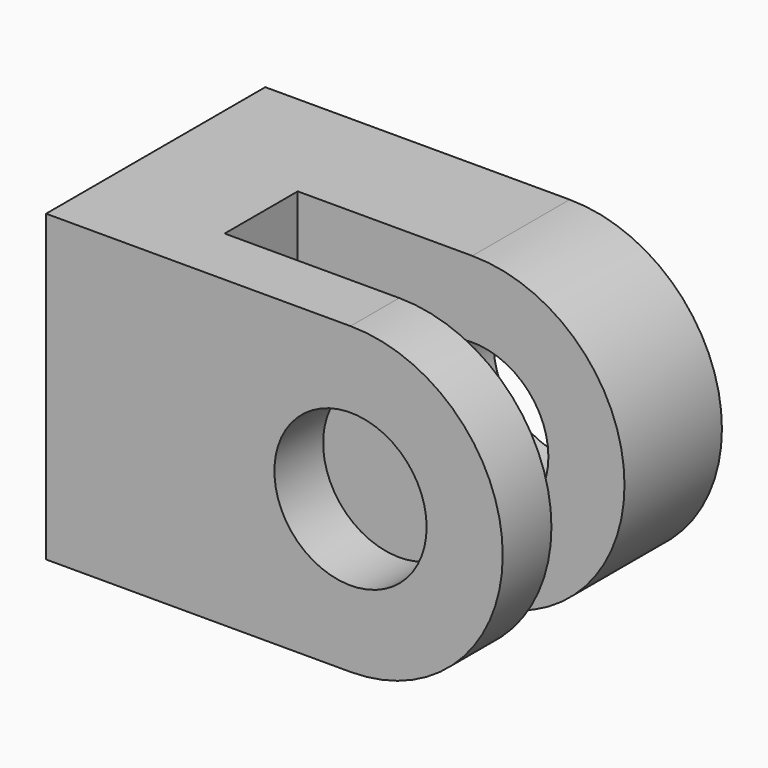
from build123d import *

# Parameters (mm, degrees)
F0_R     = 63.5
F1_DEPTH = 101.6
F3_R     = 63.5
F4_DEPTH = 50.8
F5_W     = 108.3593287468
F5_H     = 241.9045526981
F6_DEPTH = 76.2


with BuildPart() as f1:
    # F0 (on Front) → F1 (new body)
    with BuildSketch(Plane.XZ):
        with BuildLine():
            Line((-254, -127), (0, -127))
            ThreePointArc((0, -127), (127, 0), (0, 127))
            Line((0, 127), (-254, 127))
            Line((-254, 127), (-254, -127))
        make_face()
        Circle(F0_R, mode=Mode.SUBTRACT)
    extrude(amount=F1_DEPTH)



with BuildPart() as f4:
    # F3 (on offset) → F4 (new body)
    with BuildSketch(Plane.XZ.offset(177.8)):
        with BuildLine():
            Line((0, 127), (-254, 127))
            Line((-254, 127), (-254, -127))
            Line((-254, -127), (0, -127))
            ThreePointArc((0, -127), (127, 0), (0, 127))
        make_face()
        Circle(F3_R, mode=Mode.SUBTRACT)
    extrude(amount=F4_DEPTH)


with BuildPart() as f1_1:
    add(f1.part)

    add(f4.part)  # F6 merges F4
    # F5 (on face) → F6 (join, through all)
    with BuildSketch(Plane.XZ.offset(101.6)):
        with Locations((-199.8203356266, 6.0477236509)):
            Rectangle(F5_W, F5_H)
    extrude(amount=F6_DEPTH)


solid = f1_1.part
